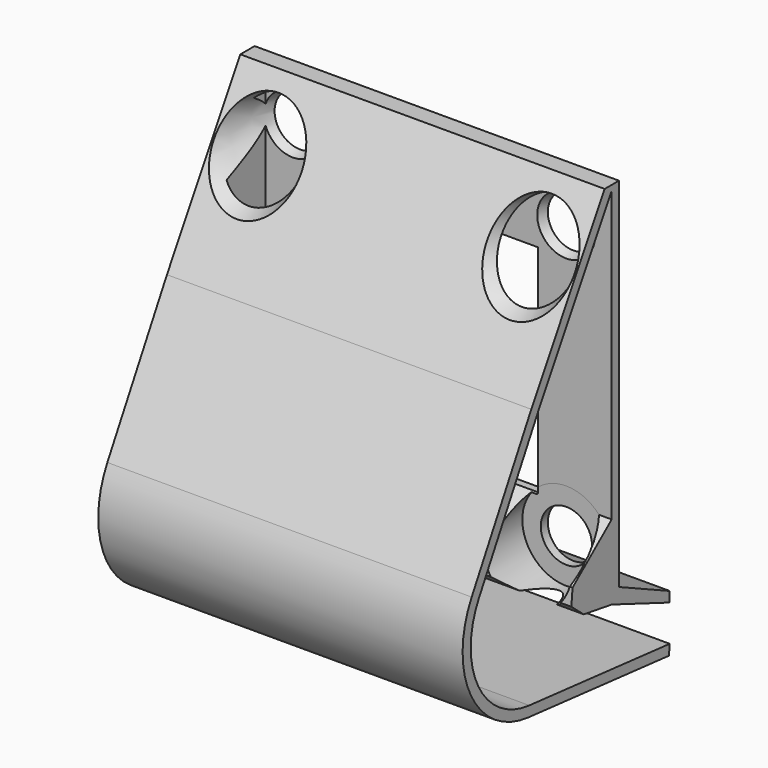
from build123d import *

# Parameters (mm, degrees)
F0_W     = 40
F0_H     = 40
F0_R     = 2.8088717
F0_R_2   = 2.8088682771
F1_DEPTH = 1
F3_DEPTH = 40
F4_DEPTH = 2
F5_DEPTH = 18.288
F5_TAPER = -20
F6_DEPTH = 9.0678
F6_TAPER = -20
F7_START = 0.9652
F7_DEPTH = 11.557


with BuildPart() as f1:
    # F0 (on Front) → F1 (new body)
    with BuildSketch(Plane.XZ):
        with Locations((6.4715254307, -8.0715133995)):
            Rectangle(F0_W, F0_H)
        with BuildLine():
            Line((-5.4296746384, -19.3524439185), (-5.4296746384, 3.8296866696))
            Line((-5.4296746384, 3.8296866696), (18.3727254998, 3.8296866696))
            Line((18.3727254998, 3.8296866696), (18.3727254998, -19.3524439185))
            ThreePointArc((18.3727254998, -19.3524439185), (23.524954992, -18.6877403838), (26.3123971307, -23.0715133995))
            ThreePointArc((26.3123971307, -23.0715133995), (19.8237237716, -27.6233029935), (17.7524559497, -19.9727134686))
            Line((17.7524559497, -19.9727134686), (-4.8094050884, -19.9727134686))
            ThreePointArc((-4.8094050884, -19.9727134686), (-3.9766849753, -21.4237117404), (-3.6876028693, -23.0715133995))
            ThreePointArc((-3.6876028693, -23.0715133995), (-12.912247585, -25.1249429608), (-5.4296746384, -19.3524439185))
        make_face(mode=Mode.SUBTRACT)
        with Locations((-8.5284745693, 6.9284866005)):
            Circle(F0_R, mode=Mode.SUBTRACT)
        with Locations((21.4715254307, 6.9284866005)):
            Circle(F0_R_2, mode=Mode.SUBTRACT)
        with BuildLine():
            Line((-5.4296746384, -19.9727134686), (-5.4296746384, -19.3524439185))
            ThreePointArc((-5.4296746384, -19.3524439185), (-12.912247585, -25.1249429608), (-3.6876028693, -23.0715133995))
            ThreePointArc((-3.6876028693, -23.0715133995), (-3.9766849753, -21.4237117404), (-4.8094050884, -19.9727134686))
            Line((-4.8094050884, -19.9727134686), (-5.4296746384, -19.9727134686))
        make_face()
        with Locations((-8.5284745693, -23.0715133995)):
            Circle(F0_R, mode=Mode.SUBTRACT)
        with BuildLine():
            ThreePointArc((26.3123971307, -23.0715133995), (23.524954992, -18.6877403838), (18.3727254998, -19.3524439185))
            Line((18.3727254998, -19.3524439185), (18.3727254998, -19.9727134686))
            Line((18.3727254998, -19.9727134686), (17.7524559497, -19.9727134686))
            ThreePointArc((17.7524559497, -19.9727134686), (19.8237237716, -27.6233029935), (26.3123971307, -23.0715133995))
        make_face()
        with Locations((21.4715254307, -23.0715133995)):
            Circle(F0_R, mode=Mode.SUBTRACT)
    extrude(amount=F1_DEPTH)

    # F2 (on face) → F3 (join)
    with BuildSketch(Plane(origin=(-13.5284745693, 0, 0), x_dir=(0, -1, 0), z_dir=(-1, 0, 0))):
        with BuildLine():
            Line((12.3116524944, -33.2211739971), (-6.9665359333, -35.1002924144))
            Line((-6.9665359333, -35.1002924144), (-6.8581130742, -36.2126205614))
            Line((-6.8581130742, -36.2126205614), (12.4200753535, -34.333502144))
            ThreePointArc((12.4200753535, -34.333502144), (20.3048000078, -29.0359972653), (20.2130647017, -19.5373644454))
            Line((20.2130647017, -19.5373644454), (12.0343582979, -4.7106706036))
            Line((12.0343582979, -4.7106706036), (1.9645202799, 12.4930484239))
            Line((1.9645202799, 12.4930484239), (0, 12.4930484239))
            Line((0, 12.4930484239), (0, 11.9284866005))
            Line((0, 11.9284866005), (1, 11.9284866005))
            Line((1, 11.9284866005), (11.0626462847, -5.2629457787))
            Line((11.0626462847, -5.2629457787), (19.2344762678, -20.0771737634))
            ThreePointArc((19.2344762678, -20.0771737634), (19.3159684051, -28.5151887743), (12.3116524944, -33.2211739971))
        make_face()
        Polygon((1, -19.8451913893), (1, -28.0715133995), (4.8349229619, -27.460442856), (6.5377627002, -26.0303480879), (6.3641844317, -24.2495797575), align=None)
        Polygon((-6.9665359333, -31.1145037413), (1, -28.0715133995), (0, -28.0715133995), (0, -26.7824456096), (-6.9665359333, -29.9953967333), align=None)
    extrude(amount=-F3_DEPTH)

    # F2 (on face) → F4 (join)
    with BuildSketch(Plane(origin=(-13.5284745693, 0, 0), x_dir=(0, -1, 0), z_dir=(-1, 0, 0))):
        with BuildLine():
            Line((4.8349229619, -27.460442856), (1, -28.0715133995))
            Line((1, -28.0715133995), (-6.9665359333, -31.1145037413))
            Line((-6.9665359333, -31.1145037413), (-6.9665359333, -35.1002924144))
            Line((-6.9665359333, -35.1002924144), (12.3116524944, -33.2211739971))
            ThreePointArc((12.3116524944, -33.2211739971), (19.3159684051, -28.5151887743), (19.2344762678, -20.0771737634))
            Line((19.2344762678, -20.0771737634), (11.0626462847, -5.2629457787))
            Line((11.0626462847, -5.2629457787), (1, 11.9284866005))
            Line((1, 11.9284866005), (1, -19.8451913893))
            Line((1, -19.8451913893), (6.3641844317, -24.2495797575))
            Line((6.3641844317, -24.2495797575), (6.5377627002, -26.0303480879))
            Line((6.5377627002, -26.0303480879), (4.8349229619, -27.460442856))
        make_face()
    extrude(amount=-F4_DEPTH)

    # F0 (on Front) → F5 (cut)
    with BuildSketch(Plane.XZ):
        with Locations((21.4715254307, 6.9284866005)):
            Circle(F0_R_2)
    extrude(amount=F5_DEPTH, taper=F5_TAPER, mode=Mode.SUBTRACT)

    # F0 (on Front) → F6 (cut)
    with BuildSketch(Plane.XZ):
        with Locations((-8.5284745693, 6.9284866005)):
            Circle(F0_R)
    extrude(amount=F6_DEPTH, taper=F6_TAPER, mode=Mode.SUBTRACT)

    # F0 (on Front) → F7 (cut)
    with BuildSketch(Plane.XZ.offset(F7_START)):
        with BuildLine():
            ThreePointArc((26.3123971307, -23.0715133995), (23.524954992, -18.6877403838), (18.3727254998, -19.3524439185))
            Line((18.3727254998, -19.3524439185), (18.3727254998, -19.9727134686))
            Line((18.3727254998, -19.9727134686), (17.7524559497, -19.9727134686))
            ThreePointArc((17.7524559497, -19.9727134686), (19.8237237716, -27.6233029935), (26.3123971307, -23.0715133995))
        make_face()
        with Locations((21.4715254307, -23.0715133995)):
            Circle(F0_R, mode=Mode.SUBTRACT)
        with BuildLine():
            Line((-5.4296746384, -19.9727134686), (-5.4296746384, -19.3524439185))
            ThreePointArc((-5.4296746384, -19.3524439185), (-12.912247585, -25.1249429608), (-3.6876028693, -23.0715133995))
            ThreePointArc((-3.6876028693, -23.0715133995), (-3.9766849753, -21.4237117404), (-4.8094050884, -19.9727134686))
            Line((-4.8094050884, -19.9727134686), (-5.4296746384, -19.9727134686))
        make_face()
        with Locations((-8.5284745693, -23.0715133995)):
            Circle(F0_R, mode=Mode.SUBTRACT)
        with Locations((21.4715254307, -23.0715133995)):
            Circle(F0_R)
        with Locations((-8.5284745693, -23.0715133995)):
            Circle(F0_R)
    extrude(amount=F7_DEPTH, mode=Mode.SUBTRACT)


solid = f1.part
